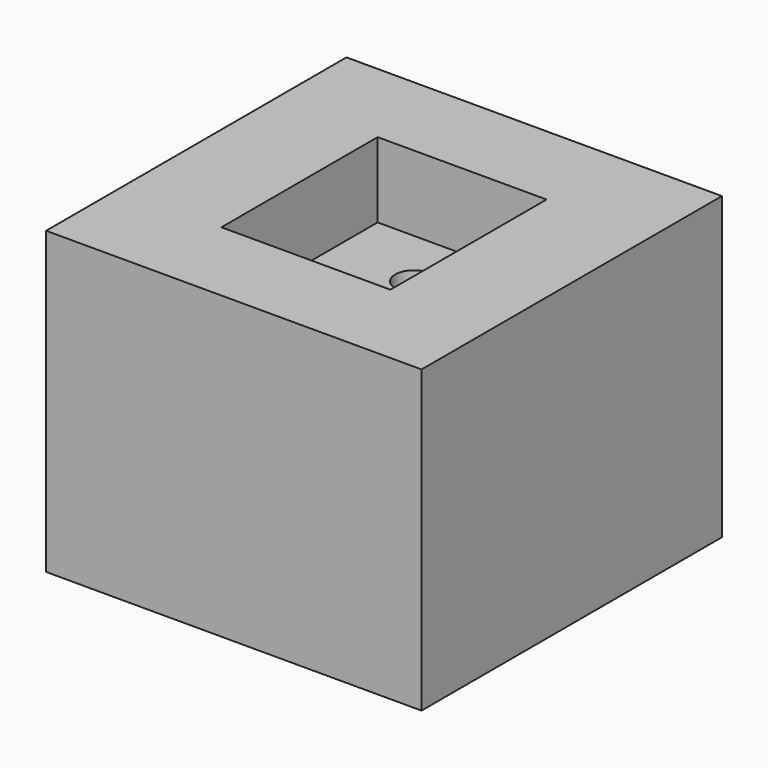
from build123d import *

# Parameters (mm, degrees)
F0_W     = 10
F0_H     = 10
F1_DEPTH = 8
F2_W     = 4.5
F2_H     = 5.2
F3_DEPTH = 2
F4_R     = 0.5
F5_DEPTH = 25


with BuildPart() as f1:
    # F0 (on Top) → F1 (new body)
    with BuildSketch(Plane.XY):
        with Locations((5, -5)):
            Rectangle(F0_W, F0_H)
    extrude(amount=F1_DEPTH)

    # F2 (on face) → F3 (cut)
    with BuildSketch(Plane.XY.offset(8)):
        with Locations((5, -5)):
            Rectangle(F2_W, F2_H)
    extrude(amount=-F3_DEPTH, mode=Mode.SUBTRACT)

    # F4 (on face) → F5 (cut)
    with BuildSketch(Plane.XY.offset(6)):
        with Locations((5, -4)):
            Circle(F4_R)
        with Locations((5, -6)):
            Circle(F4_R)
    extrude(amount=-F5_DEPTH, mode=Mode.SUBTRACT)


solid = f1.part
